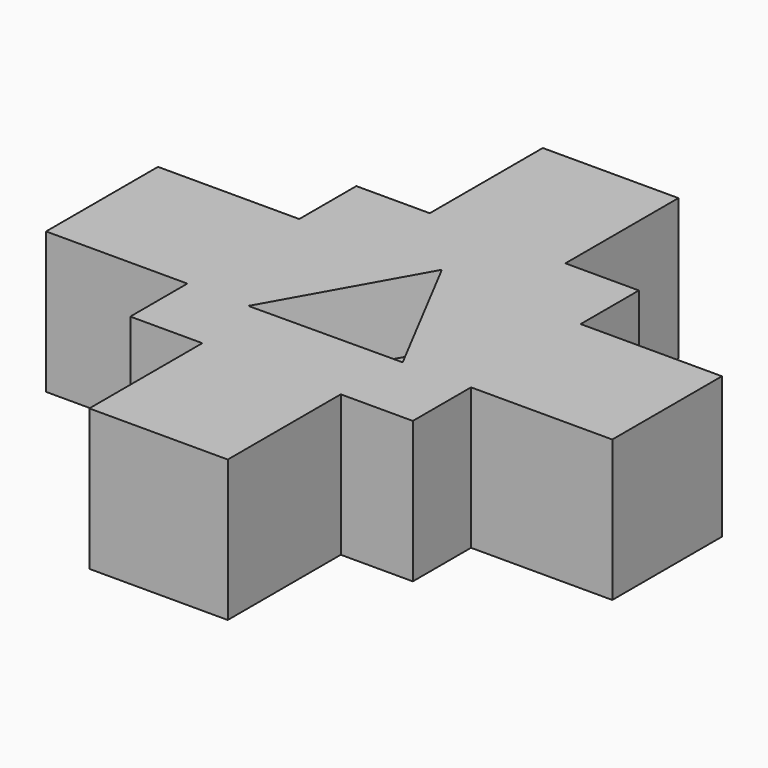
from build123d import *

# Parameters (mm, degrees)
F0_W     = 4.8
F0_H     = 10
F0_W_2   = 10
F0_H_2   = 4.95
F0_H_3   = 4.85
F0_W_3   = 4.9
F1_DEPTH = 10
F3_DEPTH = 5


with BuildPart() as f1:
    # F0 (on Top) → F1 (new body)
    with BuildSketch(Plane.XY):
        Polygon((5.2, 0), (0, 0), (0, -5.05), (0, -10), (0, -14.95), (0, -20), (5.1, -20), (10, -20), (14.9, -20), (20, -20), (20, -14.85), (20, -10), (20, -5.15), (20, 0), (14.8, 0), (10, 0), align=None)
        with Locations((7.6, 5)):
            Rectangle(F0_W, F0_H)
        with Locations((-5, -7.525)):
            Rectangle(F0_W_2, F0_H_2)
        with Locations((12.4, 5)):
            Rectangle(F0_W, F0_H)
        with Locations((-5, -12.475)):
            Rectangle(F0_W_2, F0_H_2)
        with Locations((25, -7.575)):
            Rectangle(F0_W_2, F0_H_3)
        with Locations((7.55, -25)):
            Rectangle(F0_W_3, F0_H)
        with Locations((25, -12.425)):
            Rectangle(F0_W_2, F0_H_3)
        with Locations((12.45, -25)):
            Rectangle(F0_W_3, F0_H)
    extrude(amount=F1_DEPTH)

    # F2 (on face) → F3 (cut)
    with BuildSketch(Plane.XY.offset(10)):
        Polygon((10, -14.9), (15.18014, -14.874099), (9.949831, -4.866128), align=None)
        Polygon((4.301277, -14.928494), (10, -14.9), (9.949831, -4.866128), align=None)
    extrude(amount=-F3_DEPTH, mode=Mode.SUBTRACT)


solid = f1.part
